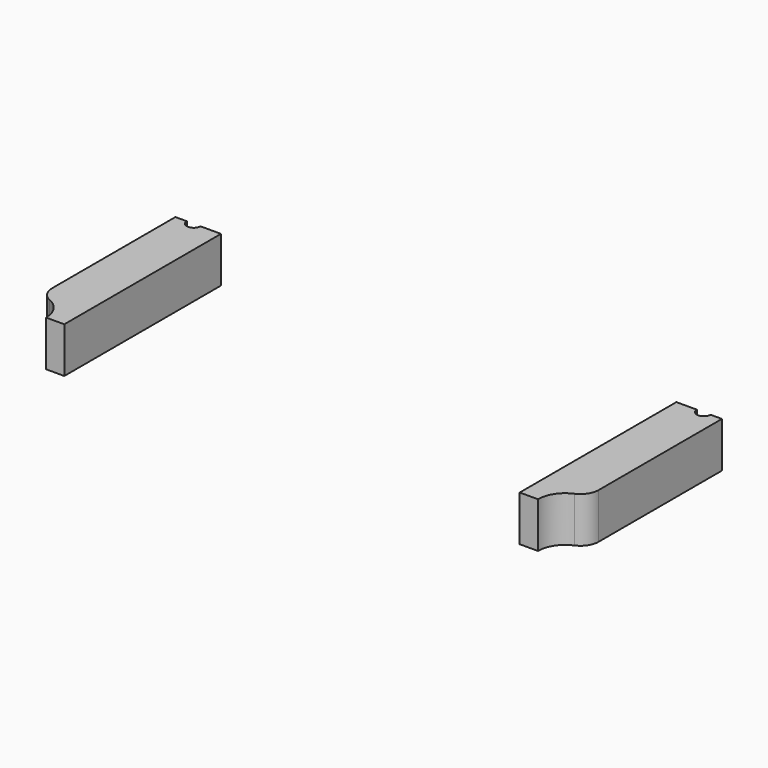
from build123d import *

# Parameters (mm, degrees)
CYLINDER526_R               = 6
CYLINDER526_DEPTH           = 10
CYLINDER522_R               = 6
CYLINDER522_DEPTH           = 10
CYLINDER524_R               = 1.5
CYLINDER524_DEPTH           = 20
CYLINDER524_PLACEMENT_ANGLE = 45
CYLINDER521_R               = 1.5
CYLINDER521_DEPTH           = 20
CYLINDER523_R               = 1.5
CYLINDER523_DEPTH           = 20
CYLINDER523_PLACEMENT_ANGLE = 135
CYLINDER527_R               = 1.5
CYLINDER527_DEPTH           = 20
CYLINDER520_R               = 1.5
CYLINDER520_DEPTH           = 20
CYLINDER520_PLACEMENT_ANGLE = 225
CYLINDER525_R               = 1.5
CYLINDER525_DEPTH           = 20
CYLINDER518_R               = 1.5
CYLINDER518_DEPTH           = 20
CYLINDER518_PLACEMENT_ANGLE = 45
CYLINDER519_R               = 1.5
CYLINDER519_DEPTH           = 20
BOX108_W                    = 10
BOX108_H                    = 43
BOX108_DEPTH                = 10
BOX109_W                    = 10
BOX109_H                    = 43
BOX109_DEPTH                = 10
FILLET002_R                 = 4


with BuildPart() as obj1:
    # Cylinder526 → Cylinder526 (new body)
    with BuildSketch(Plane(origin=(-60, -43, 10), x_dir=(1, 0, 0), z_dir=(0, 0, 1))):
        Circle(CYLINDER526_R)
    extrude(amount=CYLINDER526_DEPTH)


with BuildPart() as compound241:
    # Cylinder522 → Cylinder522 (new body)
    with BuildSketch(Plane(origin=(60, -43, 10), x_dir=(1, 0, 0), z_dir=(0, 0, 1))):
        Circle(CYLINDER522_R)
    extrude(amount=CYLINDER522_DEPTH)

    # Compound241: union obj1
    add(obj1.part)


with BuildPart() as obj2:
    # Cylinder524 → Cylinder524 (new body)
    with BuildSketch(Plane.XY):
        Circle(CYLINDER524_R)
    extrude(amount=CYLINDER524_DEPTH)


with BuildPart() as obj2_1:
    # Cylinder524 placement: moved
    add(obj2.part.moved(Location((39.59798, -39.59798, 2))).rotate(Axis((39.59798, -39.59798, 2), (0, 0, 1)), CYLINDER524_PLACEMENT_ANGLE))


with BuildPart() as obj3:
    # Cylinder521 → Cylinder521 (new body)
    with BuildSketch(Plane(origin=(56, 0, 2), x_dir=(0, 1, 0), z_dir=(0, 0, 1))):
        Circle(CYLINDER521_R)
    extrude(amount=CYLINDER521_DEPTH)


with BuildPart() as obj4:
    # Cylinder523 → Cylinder523 (new body)
    with BuildSketch(Plane.XY):
        Circle(CYLINDER523_R)
    extrude(amount=CYLINDER523_DEPTH)


with BuildPart() as obj4_1:
    # Cylinder523 placement: moved
    add(obj4.part.moved(Location((39.59798, 39.59798, 2))).rotate(Axis((39.59798, 39.59798, 2), (0, 0, 1)), CYLINDER523_PLACEMENT_ANGLE))


with BuildPart() as obj5:
    # Cylinder527 → Cylinder527 (new body)
    with BuildSketch(Plane(origin=(0, 56, 2), x_dir=(-1, 0, 0), z_dir=(0, 0, 1))):
        Circle(CYLINDER527_R)
    extrude(amount=CYLINDER527_DEPTH)


with BuildPart() as obj6:
    # Cylinder520 → Cylinder520 (new body)
    with BuildSketch(Plane.XY):
        Circle(CYLINDER520_R)
    extrude(amount=CYLINDER520_DEPTH)


with BuildPart() as obj6_1:
    # Cylinder520 placement: moved
    add(obj6.part.moved(Location((-39.59798, 39.59798, 2))).rotate(Axis((-39.59798, 39.59798, 2), (0, 0, 1)), CYLINDER520_PLACEMENT_ANGLE))


with BuildPart() as obj7:
    # Cylinder525 → Cylinder525 (new body)
    with BuildSketch(Plane(origin=(-56, 0, 2), x_dir=(0, -1, 0), z_dir=(0, 0, 1))):
        Circle(CYLINDER525_R)
    extrude(amount=CYLINDER525_DEPTH)


with BuildPart() as obj8:
    # Cylinder518 → Cylinder518 (new body)
    with BuildSketch(Plane.XY):
        Circle(CYLINDER518_R)
    extrude(amount=CYLINDER518_DEPTH)


with BuildPart() as obj8_1:
    # Cylinder518 placement: moved
    add(obj8.part.moved(Location((-39.59798, -39.59798, 2))).rotate(Axis((-39.59798, -39.59798, 2), (0, 0, -1)), CYLINDER518_PLACEMENT_ANGLE))


with BuildPart() as compound240:
    # Cylinder519 → Cylinder519 (new body)
    with BuildSketch(Plane(origin=(0, -56, 2), x_dir=(1, 0, 0), z_dir=(0, 0, 1))):
        Circle(CYLINDER519_R)
    extrude(amount=CYLINDER519_DEPTH)

    # Compound240: union obj2, obj3, obj4, obj5, obj6, obj7, obj8
    add(obj2_1.part)
    add(obj3.part)
    add(obj4_1.part)
    add(obj5.part)
    add(obj6_1.part)
    add(obj7.part)
    add(obj8_1.part)


with BuildPart() as krychle108:
    # Box108 → Box108 (new body)
    with BuildSketch(Plane(origin=(50, -43, 10), x_dir=(1, 0, 0), z_dir=(0, 0, 1))):
        with Locations((5, 21.5)):
            Rectangle(BOX108_W, BOX108_H)
    extrude(amount=BOX108_DEPTH)


with BuildPart() as fillet002:
    # Box109 → Box109 (new body)
    with BuildSketch(Plane(origin=(-60, -43, 10), x_dir=(1, 0, 0), z_dir=(0, 0, 1))):
        with Locations((5, 21.5)):
            Rectangle(BOX109_W, BOX109_H)
    extrude(amount=BOX109_DEPTH)

    # Compound239: union Krychle108
    add(krychle108.part)

    # Cut206: cut Compound240
    add(compound240.part, mode=Mode.SUBTRACT)

    # Cut207: cut Compound241
    add(compound241.part, mode=Mode.SUBTRACT)

    # Fillet002
    fillet002_edges = [fillet002.edges().sort_by_distance(p)[0] for p in [
        (-60, -37, 15),
        (60, -37, 15),
    ]]
    fillet(fillet002_edges, radius=FILLET002_R)


solid = fillet002.part
